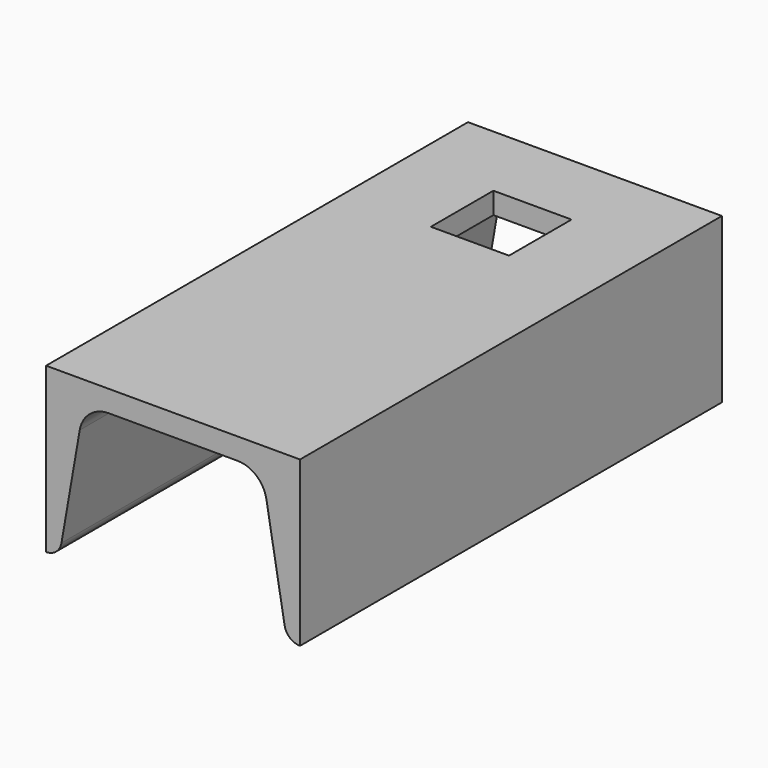
from build123d import *

# Parameters (mm, degrees)
SKETCH021_W      = 20
SKETCH021_H      = 20
EXTRUDE021_DEPTH = 15
EXTRUDE022_DEPTH = 135


with BuildPart() as extrude021:
    # Sketch021 (on Face2 of Extrude022) → Extrude021 (new body, symmetric)
    with BuildSketch(Plane.XY.offset(81)):
        with Locations((0, 610.254479)):
            Rectangle(SKETCH021_W, SKETCH021_H)
    extrude(amount=EXTRUDE021_DEPTH, both=True)


with BuildPart() as u070:
    # Sketch024 (on Face6 of Extrude023) → Extrude022 (new body)
    with BuildSketch(Plane(origin=(0, 505.254479, 0), x_dir=(-1, 0, 0), z_dir=(0, 1, 0))):
        with BuildLine():
            Line((-32.5, 39), (-32.5, 81))
            Line((-32.5, 81), (32.5, 81))
            Line((32.5, 81), (32.5, 39))
            ThreePointArc((28.55865, 42.317536), (29.924137, 39.939783), (32.5, 39))
            Line((23.890032, 69.27962), (28.55865, 42.317536))
            ThreePointArc((23.890032, 69.27962), (21.329744, 73.737907), (16.5, 75.5))
            Line((-16.5, 75.5), (16.5, 75.5))
            ThreePointArc((-16.5, 75.5), (-21.329744, 73.737907), (-23.890032, 69.27962))
            Line((-23.890032, 69.27962), (-28.55865, 42.317536))
            ThreePointArc((-32.5, 39), (-29.924137, 39.939783), (-28.55865, 42.317536))
        make_face()
    extrude(amount=EXTRUDE022_DEPTH)

    # Cut008: cut Extrude021
    add(extrude021.part, mode=Mode.SUBTRACT)


solid = u070.part
